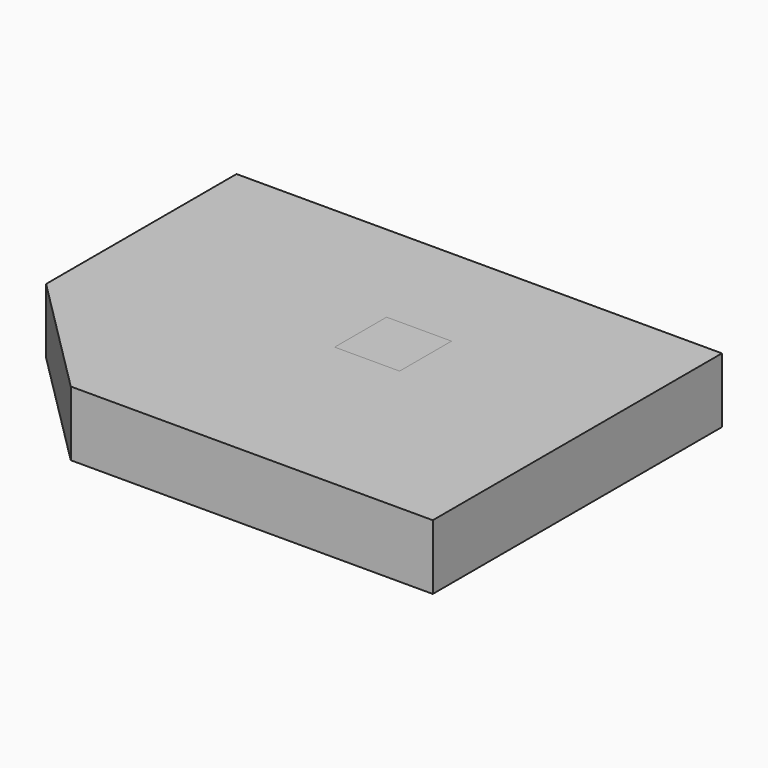
from build123d import *

# Parameters (mm, degrees)
SKETCH_W     = 74.757034
SKETCH_H     = 55.66391
PAD_DEPTH    = 10
CHAMFER_SIZE = 19
BOX_W        = 10
BOX_H        = 10
BOX_DEPTH    = 10


with BuildPart() as body:
    # Sketch → Pad (new body)
    with BuildSketch(Plane.XY):
        Rectangle(SKETCH_W, SKETCH_H)
    extrude(amount=PAD_DEPTH)

    # Chamfer
    chamfer_edges = [body.edges().sort_by_distance(p)[0] for p in [
        (-37.378517, -27.831955, 5),
    ]]
    chamfer(chamfer_edges, length=CHAMFER_SIZE)


with BuildPart() as cube:
    # Box → Box (new body)
    with BuildSketch(Plane.XY):
        with Locations((5, 5)):
            Rectangle(BOX_W, BOX_H)
    extrude(amount=BOX_DEPTH)


solid = Compound([body.part, cube.part])
